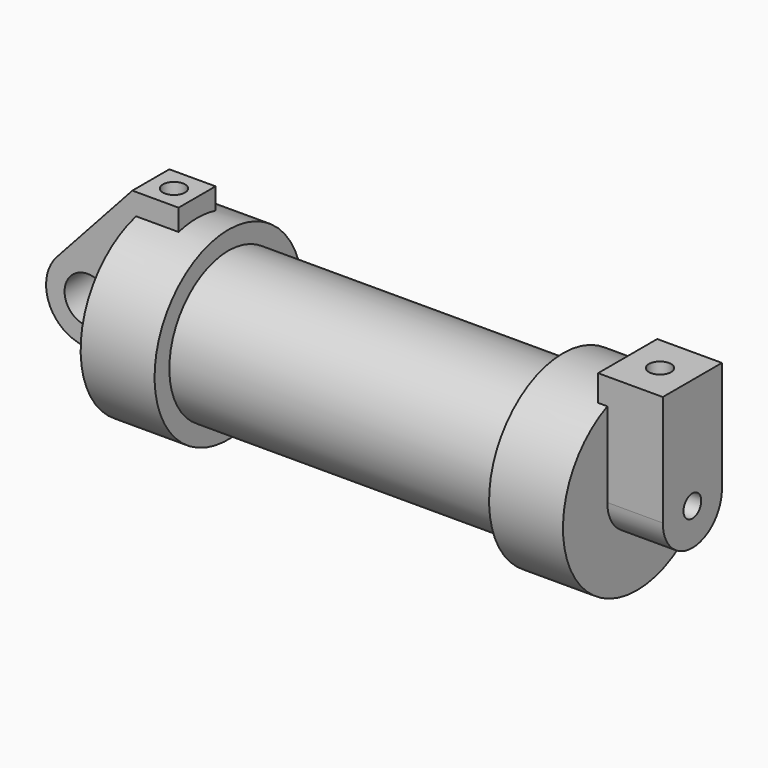
from build123d import *

# Parameters (mm, degrees)
F0_W          = 5.842
F0_H          = 12.7
F0_R          = 3.175
F2_DEPTH      = 3.175
F3_R          = 1.524
F4_DEPTH      = 7.62
F4_DEPTH_BACK = 1.27
F5_DEPTH      = 56.134
F6_R          = 1.524
F7_DEPTH      = 17.78
F8_R          = 1.524
F9_DEPTH      = 10.414


with BuildPart() as f1:
    # F0 (on Front) → F1 (revolve)
    with BuildSketch(Plane.XZ):
        with Locations((2.921, 6.35)):
            Rectangle(F0_W, F0_H)
        Polygon((5.842, 12.7), (5.842, 0), (66.294, 0), (66.294, 12.7), (56.134, 12.7), (56.134, 10.16), (10.16, 10.16), (10.16, 12.7), align=None)
    revolve(axis=Axis((-3.3274, 0, 0), (-1, 0, 0)))

    # F0 (on Front) → F2 (join, symmetric)
    with BuildSketch(Plane.XZ):
        with BuildLine():
            Line((-0.9398, 0), (0, 0))
            Line((0, 0), (0, 12.7))
            Line((0, 12.7), (5.842, 12.7))
            Line((5.842, 12.7), (5.842, 15.24))
            Line((5.842, 15.24), (-0.508, 15.24))
            Line((-0.508, 15.24), (-10.8806298187, 3.8475430269))
            ThreePointArc((-10.8806298187, 3.8475430269), (-4.5919612295, 5.3297205562), (-0.9398, 0))
        make_face()
        with BuildLine():
            Line((5.842, 0), (0, 0))
            Line((0, 0), (-0.9398, 0))
            ThreePointArc((-0.9398, 0), (-3.1957909266, -4.5493385486), (-8.1826630726, -5.5069827884))
            Line((-8.1826630726, -5.5069827884), (5.842, -9.398))
            Line((5.842, -9.398), (5.842, 0))
        make_face()
        with BuildLine():
            ThreePointArc((-8.1826630726, -5.5069827884), (-3.1957909266, -4.5493385486), (-0.9398, 0))
            ThreePointArc((-0.9398, 0), (-4.5919612295, 5.3297205562), (-10.8806298187, 3.8475430269))
            ThreePointArc((-10.8806298187, 3.8475430269), (-12.1459778134, -1.5837270034), (-8.1826630726, -5.5069827884))
        make_face()
        with Locations((-6.6548, 0)):
            Circle(F0_R, mode=Mode.SUBTRACT)
        with Locations((2.921, 6.35)):
            Rectangle(F0_W, F0_H)
    extrude(amount=F2_DEPTH, both=True)

    # F3 (on face) → F4 (join, two sides)
    with BuildSketch(Plane.YZ.offset(66.294)) as f4_sk:
        with BuildLine():
            ThreePointArc((-5.08, 0), (0, 5.08), (5.08, 0))
            Line((5.08, 0), (5.08, 11.6397422652))
            ThreePointArc((5.08, 11.6397422652), (0, 12.7), (-5.08, 11.6397422652))
            Line((-5.08, 11.6397422652), (-5.08, 0))
        make_face()
        with BuildLine():
            ThreePointArc((-5.08, 11.6397422652), (0, 12.7), (5.08, 11.6397422652))
            Line((5.08, 11.6397422652), (5.08, 15.24))
            Line((5.08, 15.24), (-5.08, 15.24))
            Line((-5.08, 15.24), (-5.08, 11.6397422652))
        make_face()
        with BuildLine():
            ThreePointArc((-5.08, 0), (0, -5.08), (5.08, 0))
            ThreePointArc((5.08, 0), (0, 5.08), (-5.08, 0))
        make_face()
        Circle(F3_R, mode=Mode.SUBTRACT)
    extrude(amount=F4_DEPTH)
    extrude(f4_sk.sketch, amount=-F4_DEPTH_BACK)

    # F5 (cut, through all): a face of the model
    f5_faces = [f1.faces().sort_by_distance(p)[0] for p in [
        (66.294, 0, 0),
    ]]
    extrude(f5_faces, amount=-F5_DEPTH, mode=Mode.SUBTRACT)

    # F6 (on face) → F7 (cut)
    with BuildSketch(Plane.XY.offset(15.24)):
        with Locations((2.667, 0)):
            Circle(F6_R)
    extrude(amount=-F7_DEPTH, mode=Mode.SUBTRACT)

    # F8 (on face) → F9 (cut)
    with BuildSketch(Plane.XY.offset(15.24)):
        with Locations((69.469, 0)):
            Circle(F8_R)
    extrude(amount=-F9_DEPTH, mode=Mode.SUBTRACT)


solid = f1.part
